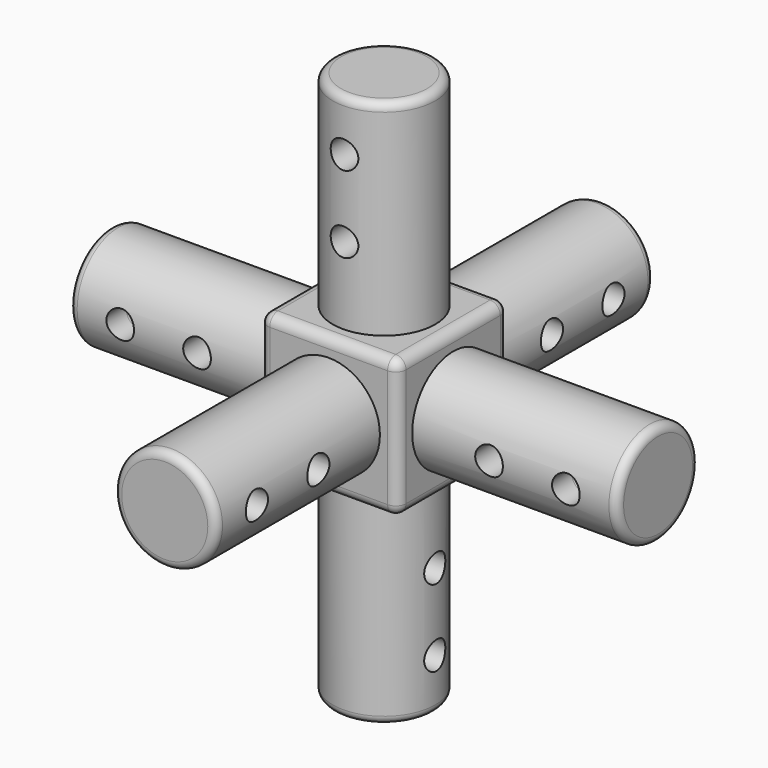
from build123d import *

# Parameters (mm, degrees)
F0_W      = 34.29
F0_H      = 34.29
F1_DEPTH  = 34.29
F2_R      = 12.7
F3_DEPTH  = 50.8
F4_R      = 12.7
F5_DEPTH  = 50.8
F6_R      = 12.7
F7_DEPTH  = 50.8
F8_R      = 3.429
F9_DEPTH  = 25.4
F10_R     = 3.429
F11_DEPTH = 25.4
F12_R     = 3.429
F13_DEPTH = 25.4
F14_R     = 2.54
F15_R     = 12.7
F16_DEPTH = 50.8
F17_R     = 3.429
F18_DEPTH = 25.4
F19_R     = 12.7
F20_DEPTH = 50.8
F21_R     = 3.429
F22_DEPTH = 25.4
F23_R     = 12.7
F24_DEPTH = 50.8
F25_R     = 2.032
F26_R     = 3.429
F27_DEPTH = 25.4


with BuildPart() as f1:
    # F0 (on Top) → F1 (new body)
    with BuildSketch(Plane.XY):
        with Locations((3.672889, 6.561064)):
            Rectangle(F0_W, F0_H)
    extrude(amount=F1_DEPTH)

    # F2 (on face) → F3 (join)
    with BuildSketch(Plane.XY.offset(34.29)):
        with Locations((3.682848, 6.561064)):
            Circle(F2_R)
    extrude(amount=F3_DEPTH)

    # F4 (on face) → F5 (join)
    with BuildSketch(Plane(origin=(-13.472111, 0, 0), x_dir=(0, -1, 0), z_dir=(-1, 0, 0))):
        with Locations((-6.561064, 17.145)):
            Circle(F4_R)
    extrude(amount=F5_DEPTH)

    # F6 (on face) → F7 (join)
    with BuildSketch(Plane.XZ.offset(10.583936)):
        with Locations((3.672889, 17.145)):
            Circle(F6_R)
    extrude(amount=F7_DEPTH)

    # F8 (on Front) → F9 (cut, symmetric)
    with BuildSketch(Plane.XZ):
        with Locations((3.672889, 53.34)):
            Circle(F8_R)
        with Locations((3.672889, 72.39)):
            Circle(F8_R)
    extrude(amount=F9_DEPTH, both=True, mode=Mode.SUBTRACT)

    # F10 (on Right) → F11 (cut, symmetric)
    with BuildSketch(Plane.YZ):
        with Locations((-29.633936, 17.145)):
            Circle(F10_R)
        with Locations((-48.683936, 17.145)):
            Circle(F10_R)
    extrude(amount=F11_DEPTH, both=True, mode=Mode.SUBTRACT)

    # F12 (on Front) → F13 (cut, symmetric)
    with BuildSketch(Plane.XZ):
        with Locations((-51.572111, 17.145)):
            Circle(F12_R)
        with Locations((-32.522111, 17.145)):
            Circle(F12_R)
    extrude(amount=F13_DEPTH, both=True, mode=Mode.SUBTRACT)

    # F14
    f14_edges = [f1.edges().sort_by_distance(p)[0] for p in [
        (20.817889, 23.706064, 17.145),
        (20.817889, 6.561064, 34.29),
        (20.817889, -10.583936, 17.145),
        (20.817889, 6.561064, 0),
        (3.672889, 23.706064, 0),
        (3.672889, 23.706064, 34.29),
        (-13.472111, 23.706064, 17.145),
        (-13.472111, 6.561064, 0),
        (3.672889, -10.583936, 0),
        (-13.472111, 6.561064, 34.29),
        (-13.472111, -10.583936, 17.145),
        (3.672889, -10.583936, 34.29),
    ]]
    fillet(f14_edges, radius=F14_R)

    # F15 (on face) → F16 (join)
    with BuildSketch(Plane(origin=(0, 23.706064, 0), x_dir=(-1, 0, 0), z_dir=(0, 1, 0))):
        with Locations((-3.672889, 17.145)):
            Circle(F15_R)
    extrude(amount=F16_DEPTH)

    # F17 (on Right) → F18 (cut, symmetric)
    with BuildSketch(Plane.YZ):
        with Locations((42.756064, 17.145)):
            Circle(F17_R)
        with Locations((61.806064, 17.145)):
            Circle(F17_R)
    extrude(amount=F18_DEPTH, both=True, mode=Mode.SUBTRACT)

    # F19 (on face) → F20 (join)
    with BuildSketch(Plane.YZ.offset(20.817889)):
        with Locations((6.561064, 17.145)):
            Circle(F19_R)
    extrude(amount=F20_DEPTH)

    # F21 (on Front) → F22 (cut, symmetric)
    with BuildSketch(Plane.XZ):
        with Locations((58.917889, 17.145)):
            Circle(F21_R)
        with Locations((39.867889, 17.145)):
            Circle(F21_R)
    extrude(amount=F22_DEPTH, both=True, mode=Mode.SUBTRACT)

    # F23 (on face) → F24 (join)
    with BuildSketch(Plane(origin=(0, 0, 0), x_dir=(1, 0, 0), z_dir=(0, 0, -1))):
        with Locations((3.672889, -6.561064)):
            Circle(F23_R)
    extrude(amount=F24_DEPTH)

    # F25
    f25_edges = [f1.edges().sort_by_distance(p)[0] for p in [
        (-9.017152, 6.561064, 85.09),
        (-9.027111, -61.383936, 17.145),
        (-64.272111, 19.261064, 17.145),
        (16.372889, 74.506064, 17.145),
        (71.617889, -6.138936, 17.145),
        (-9.027111, 6.561064, -50.8),
    ]]
    fillet(f25_edges, radius=F25_R)

    # F26 (on Right) → F27 (cut, symmetric)
    with BuildSketch(Plane.YZ):
        with Locations((7.011493, -19.05)):
            Circle(F26_R)
        with Locations((7.011493, -38.1)):
            Circle(F26_R)
    extrude(amount=F27_DEPTH, both=True, mode=Mode.SUBTRACT)


solid = f1.part
